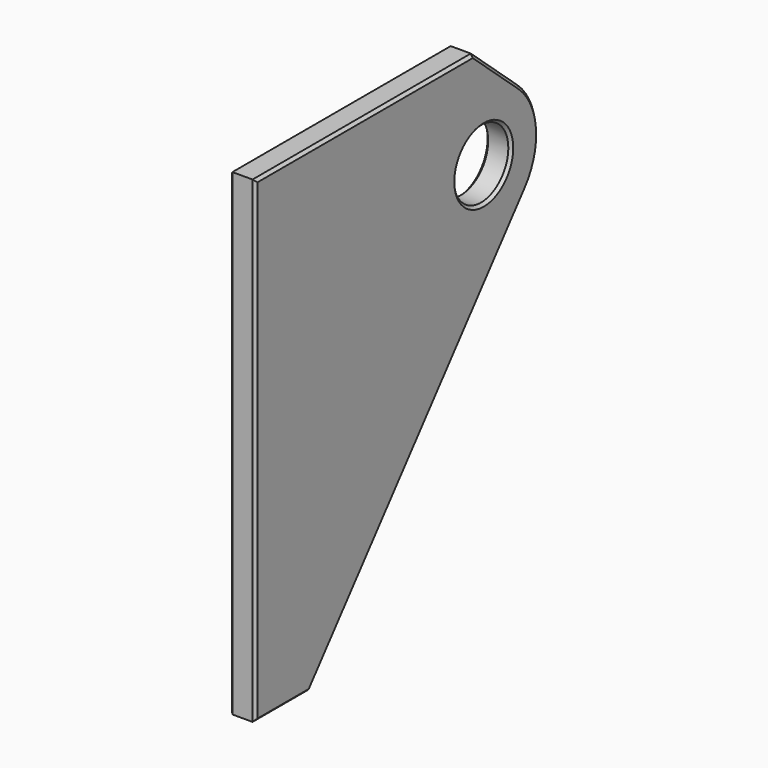
from build123d import *

# Parameters (mm, degrees)
F0_R     = 12.7
F1_DEPTH = 9.525
F2_SIZE  = 1.016


with BuildPart() as f1:
    # F0 (on Right) → F1 (new body)
    with BuildSketch(Plane.YZ):
        with BuildLine():
            Line((0, 177.8), (0, 0))
            Line((0, 0), (25.4, 0))
            Line((25.4, 0), (126.061491, 123.665358))
            ThreePointArc((126.061491, 123.665358), (131.677166, 141.780312), (123.179496, 158.735458))
            Line((123.179496, 158.735458), (101.6, 177.8))
            Line((101.6, 177.8), (0, 177.8))
        make_face()
        with Locations((106.3625, 139.7)):
            Circle(F0_R, mode=Mode.SUBTRACT)
    extrude(amount=F1_DEPTH)

    # F2
    f2_edges = [f1.edges().sort_by_distance(p)[0] for p in [
        (9.525, 0, 88.9),
        (9.525, 12.7, 0),
        (9.525, 75.730745, 61.832679),
        (9.525, 131.677166, 141.780312),
        (9.525, 112.389748, 168.267729),
        (9.525, 50.8, 177.8),
        (9.525, 93.6625, 139.7),
        (0, 0, 88.9),
        (0, 12.7, 0),
        (0, 75.730745, 61.832679),
        (0, 131.677166, 141.780312),
        (0, 112.389748, 168.267729),
        (0, 50.8, 177.8),
        (0, 93.6625, 139.7),
    ]]
    chamfer(f2_edges, length=F2_SIZE)


solid = f1.part
